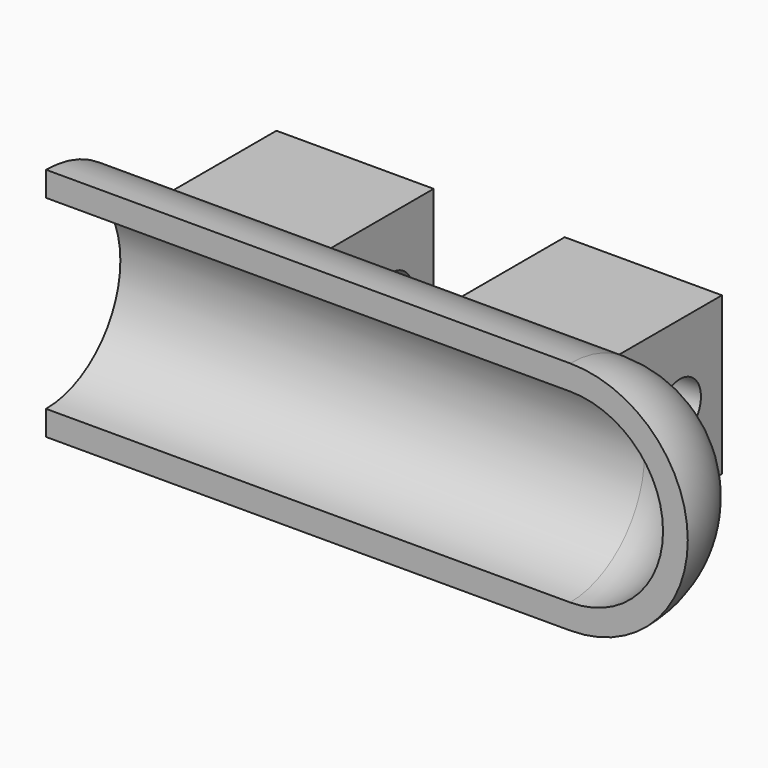
from build123d import *

# Parameters (mm, degrees)
F1_ANGLE = 180
F6_R     = 3.175
F7_DEPTH = 71.401


with BuildPart() as f1:
    # F0 (on Front) → F1 (revolve)
    with BuildSketch(Plane.XZ):
        with BuildLine():
            ThreePointArc((43, 0), (39.7049512883, -7.9549512883), (31.75, -11.25))
            Line((31.75, -11.25), (0, -11.25))
            Line((0, -11.25), (-31.75, -11.25))
            Line((-31.75, -11.25), (-31.75, -14.25))
            Line((-31.75, -14.25), (31.75, -14.25))
            ThreePointArc((31.75, -14.25), (41.8262716319, -10.0762716319), (46, 0))
            Line((46, 0), (43, 0))
        make_face()
    revolve(axis=Axis((28.0016548932, 0, 0), (1, 0, 0)), revolution_arc=F1_ANGLE)

    # F4 (on face) → F5 (join, up to the next surface of F1)
    with BuildSketch(Plane(origin=(0, 26.95, 0), x_dir=(-1, 0, 0), z_dir=(0, 1, 0))):
        Polygon((25.4, 9.525), (6.35, 9.525), (6.35, 0), (6.35, -9.525), (25.4, -9.525), (25.4, 0), align=None)
        Polygon((-9.525, 0), (-9.525, 9.525), (-28.575, 9.525), (-28.575, 0), (-28.575, -9.525), (-9.525, -9.525), align=None)
    extrude(until=Until.NEXT, dir=(0, -1, 0))

    # F6 (on face) → F7 (cut, through all)
    with BuildSketch(Plane(origin=(-25.4, 0, 0), x_dir=(0, -1, 0), z_dir=(-1, 0, 0))):
        with Locations((-20.6, 0)):
            Circle(F6_R)
    extrude(amount=-F7_DEPTH, mode=Mode.SUBTRACT)


solid = f1.part
